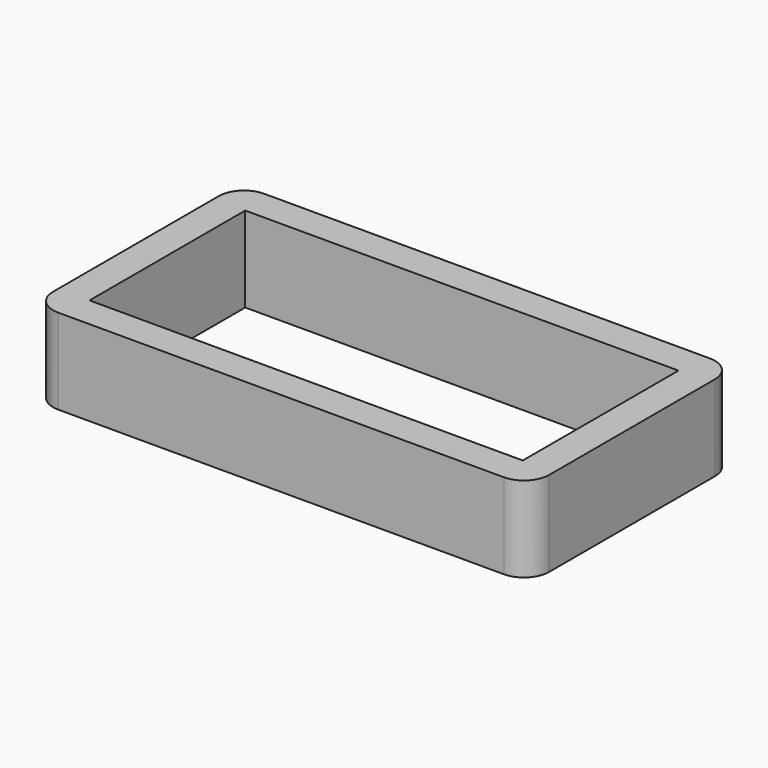
from build123d import *

# Parameters (mm, degrees)
F0_W     = 100.33
F0_H     = 52.07
F1_DEPTH = 17.272
F2_R     = 5.08
F3_W     = 87.63
F3_H     = 39.37
F4_DEPTH = 25.4


with BuildPart() as f1:
    # F0 (on Top) → F1 (new body)
    with BuildSketch(Plane.XY):
        with Locations((50.165, 26.035)):
            Rectangle(F0_W, F0_H)
    extrude(amount=F1_DEPTH)

    # F2
    f2_edges = [f1.edges().sort_by_distance(p)[0] for p in [
        (0, 52.07, 8.636),
        (0, 0, 8.636),
        (100.33, 0, 8.636),
        (100.33, 52.07, 8.636),
    ]]
    fillet(f2_edges, radius=F2_R)

    # F3 (on face) → F4 (cut)
    with BuildSketch(Plane.XY.offset(17.272)):
        with Locations((50.165, 26.035)):
            Rectangle(F3_W, F3_H)
    extrude(amount=-F4_DEPTH, mode=Mode.SUBTRACT)


solid = f1.part
